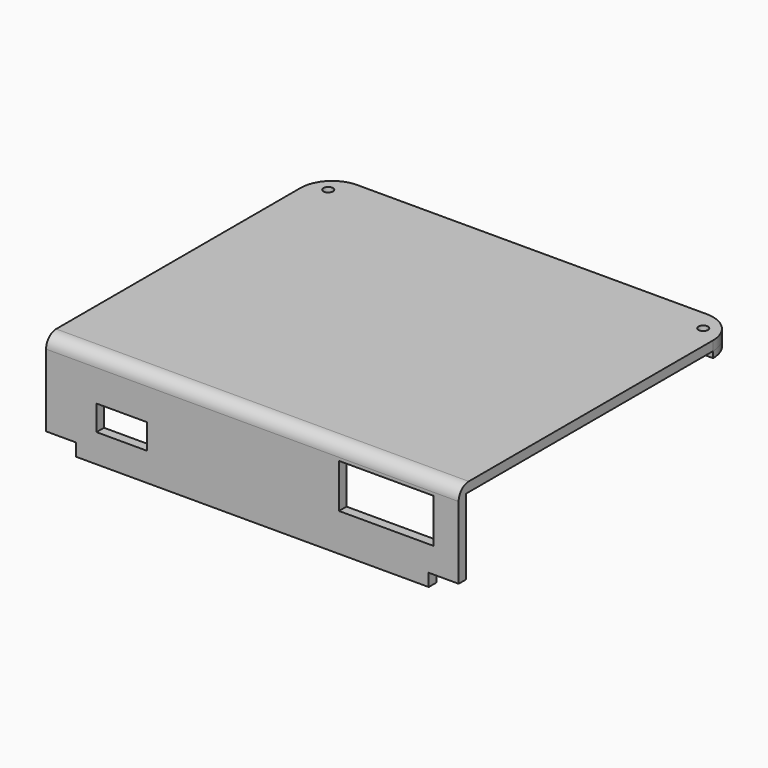
from build123d import *

# Parameters (mm, degrees)
F1_DEPTH = 65.5
F2_R     = 5
F4_DEPTH = 1
F6_D     = 1.5
F6_DEPTH = 5
F7_W     = 15
F7_H     = 7
F7_W_2   = 8
F7_H_2   = 4
F8_DEPTH = 5
F7_W_3   = 4.75
F7_H_3   = 2
F9_DEPTH = 5


with BuildPart() as f1:
    # F0 (on Right) → F1 (new body)
    with BuildSketch(Plane.YZ):
        with BuildLine():
            Line((-36.059797, 0), (-34.559797, 0))
            Line((-34.559797, 0), (-34.559797, 14))
            Line((-34.559797, 14), (19.440203, 14))
            Line((19.440203, 14), (19.440203, 15.5))
            Line((19.440203, 15.5), (-34.059797, 15.5))
            ThreePointArc((-34.059797, 15.5), (-35.47401, 14.914214), (-36.059797, 13.5))
            Line((-36.059797, 13.5), (-36.059797, 0))
        make_face()
    extrude(amount=F1_DEPTH)

    # F2
    f2_edges = [f1.edges().sort_by_distance(p)[0] for p in [
        (65.5, 19.440203, 14.75),
        (0, 19.440203, 14.75),
    ]]
    fillet(f2_edges, radius=F2_R)

    # F3 (on face) → F4 (join)
    with BuildSketch(Plane(origin=(0, 0, 14), x_dir=(1, 0, 0), z_dir=(0, 0, -1))):
        with BuildLine():
            ThreePointArc((0, -14.440203), (1.464466, -17.975737), (5, -19.440203))
            Line((5, -19.440203), (5, -14.440203))
            Line((5, -14.440203), (0, -14.440203))
        make_face()
        with BuildLine():
            ThreePointArc((60.5, -19.440203), (64.035534, -17.975737), (65.5, -14.440203))
            Line((65.5, -14.440203), (60.5, -14.440203))
            Line((60.5, -14.440203), (60.5, -19.440203))
        make_face()
    extrude(amount=F4_DEPTH)

    # F6
    with Locations(Plane.XY.offset(15.5)):
        with Locations((2.982233, 16.20797), (62.517767, 16.20797)):
            Hole(F6_D / 2, depth=F6_DEPTH)

    # F7 (on face) → F8 (cut)
    with BuildSketch(Plane.XZ.offset(36.059797)):
        with Locations((54, 9.5)):
            Rectangle(F7_W, F7_H)
        with Locations((12, 6.5)):
            Rectangle(F7_W_2, F7_H_2)
    extrude(amount=-F8_DEPTH, mode=Mode.SUBTRACT)

    # F7 (on face) → F9 (cut)
    with BuildSketch(Plane.XZ.offset(36.059797)):
        with Locations((2.375, 1)):
            Rectangle(F7_W_3, F7_H_3)
        with Locations((63.125, 1)):
            Rectangle(F7_W_3, F7_H_3)
    extrude(amount=-F9_DEPTH, mode=Mode.SUBTRACT)


solid = f1.part
